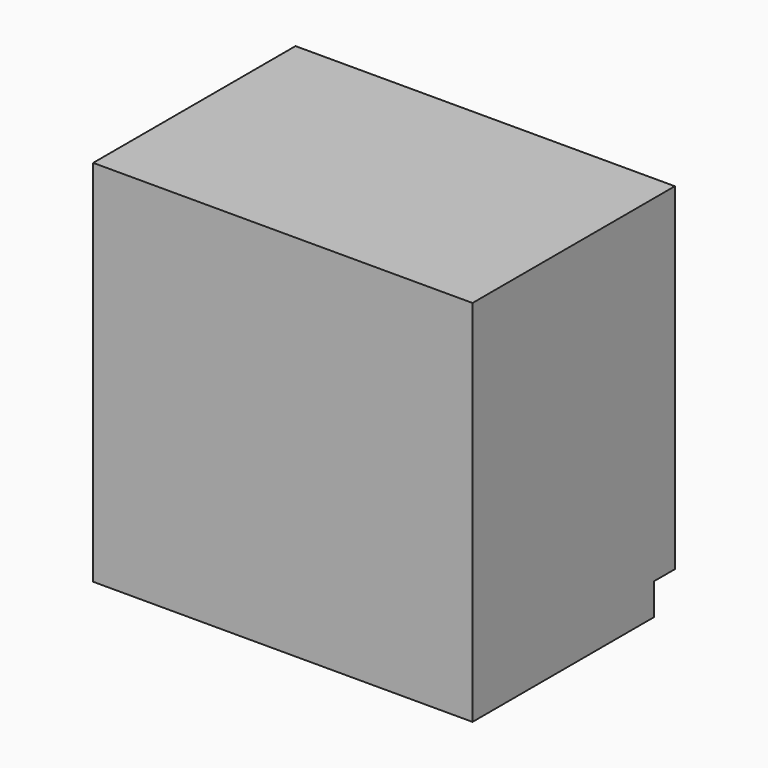
from build123d import *

# Parameters (mm, degrees)
F0_W     = 914.4
F0_H     = 609.6
F1_DEPTH = 889
F2_W     = 63.5
F2_H     = 76.2
F3_DEPTH = 914.4
F4_W     = 397.184085
F4_H     = 642.411709
F4_W_2   = 404.053162
F5_DEPTH = 25.4


with BuildPart() as f1:
    # F0 (on Top) → F1 (new body)
    with BuildSketch(Plane.XY):
        Rectangle(F0_W, F0_H)
    extrude(amount=F1_DEPTH)

    # F2 (on face) → F3 (cut)
    with BuildSketch(Plane(origin=(-457.2, 0, 0), x_dir=(0, -1, 0), z_dir=(-1, 0, 0))):
        with Locations((-273.05, 38.1)):
            Rectangle(F2_W, F2_H)
    extrude(amount=-F3_DEPTH, mode=Mode.SUBTRACT)

    # F4 (on face) → F5 (cut)
    with BuildSketch(Plane(origin=(0, 304.8, 0), x_dir=(-1, 0, 0), z_dir=(0, 1, 0))):
        with Locations((-204.942043, 479.41935)):
            Rectangle(F4_W, F4_H)
        with Locations((208.376581, 479.41935)):
            Rectangle(F4_W_2, F4_H)
    extrude(amount=-F5_DEPTH, mode=Mode.SUBTRACT)


solid = f1.part
